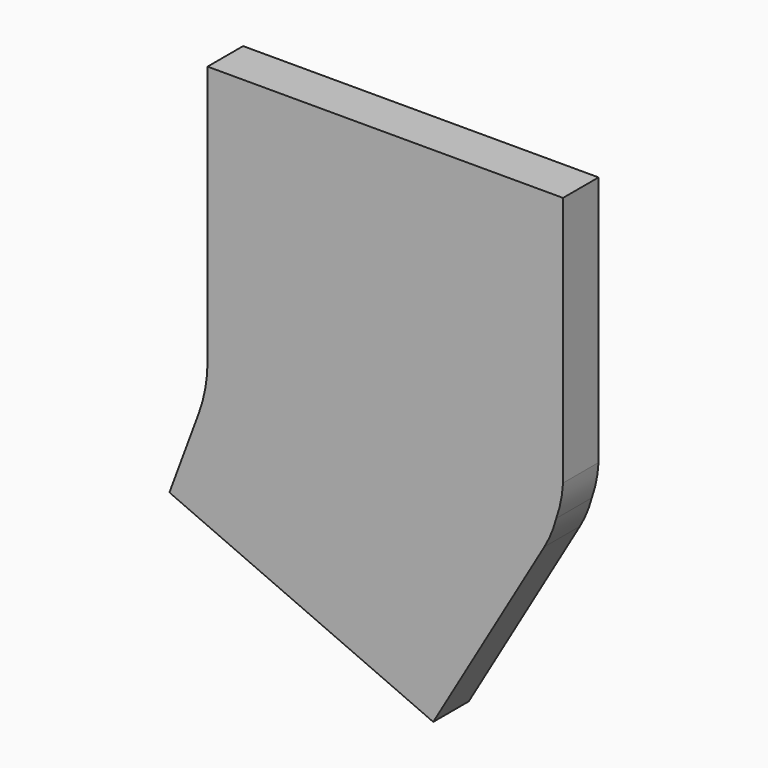
from build123d import *

# Parameters (mm, degrees)
F0_W     = 127
F0_H     = 101.6
F1_DEPTH = 15.875
F3_DEPTH = 19.05
F5_DEPTH = 15.875
F6_R     = 50.8


with BuildPart() as f1:
    # F0 (on Front) → F1 (new body)
    with BuildSketch(Plane.XZ):
        with Locations((-62.0965630407, -41.252563009)):
            Rectangle(F0_W, F0_H)
    extrude(amount=F1_DEPTH)

    # F2 (on face) → F3 (cut)
    with BuildSketch(Plane.XZ.offset(15.875)):
        with BuildLine():
            Line((-1.0253972141, -92.052563009), (1.4034369593, -92.052563009))
            Line((1.4034369593, -92.052563009), (1.4034369593, -80.1284596617))
            ThreePointArc((1.4034369593, -80.1284596617), (0.6228444874, -86.1788775646), (-1.0253972141, -92.052563009))
        make_face()
        with BuildLine():
            Line((1.4034369593, -75.45119524), (1.4034369593, -80.1284596617))
            ThreePointArc((1.4034369593, -80.1284596617), (1.4685491276, -77.7898274509), (1.4034369593, -75.45119524))
        make_face()
    extrude(amount=-F3_DEPTH, mode=Mode.SUBTRACT)

    # F4 (on face) → F5 (join)
    with BuildSketch(Plane.XZ.offset(15.875)):
        with BuildLine():
            Line((-1.0253972141, -92.052563009), (-125.5965630407, -92.052563009))
            Line((-125.5965630407, -92.052563009), (-139.2145454884, -128.8291364908))
            Line((-139.2145454884, -128.8291364908), (-44.9651107192, -170.3518033028))
            Line((-44.9651107192, -170.3518033028), (-5.2652601153, -102.3738086224))
            ThreePointArc((-5.2652601153, -102.3738086224), (-2.7865893027, -97.3605523032), (-1.0253972141, -92.052563009))
        make_face()
    extrude(amount=-F5_DEPTH)

    # F6
    f6_edges = [f1.edges().sort_by_distance(p)[0] for p in [
        (-125.596563, -7.9375, -92.052563),
    ]]
    fillet(f6_edges, radius=F6_R)


solid = f1.part
